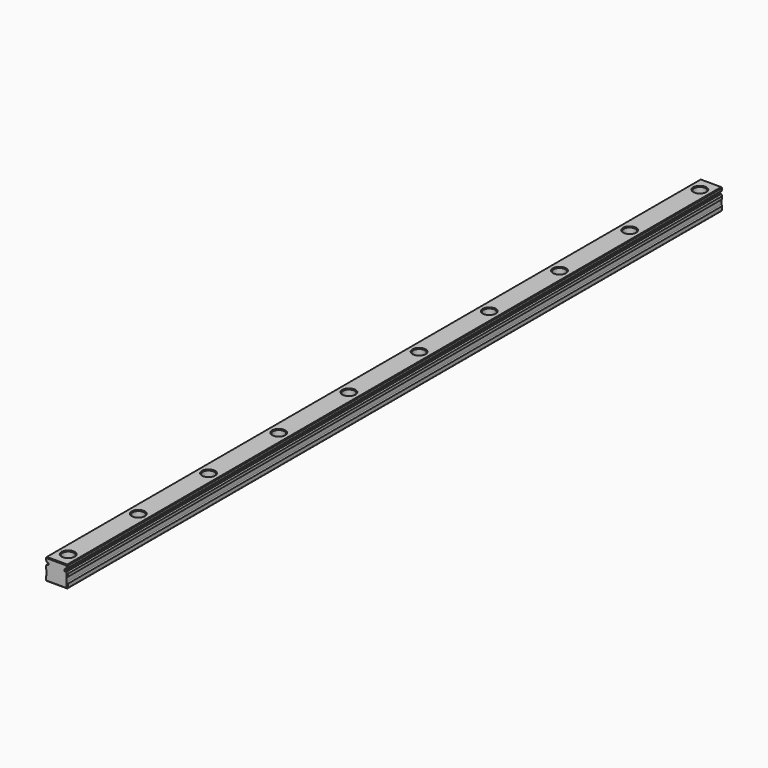
from build123d import *

# Parameters (mm, degrees)
F1_DEPTH = 560
F2_R     = 2.25
F3_DEPTH = 14.5
F4_R     = 4
F5_DEPTH = 6.3
F6_SIZE  = 0.5


with BuildPart() as f1:
    # F0 (on Front) → F1 (new body)
    with BuildSketch(Plane.XZ):
        with BuildLine():
            Line((-7.5, -7.25), (0, -7.25))
            Line((0, -7.25), (7.5, -7.25))
            Line((7.5, -7.25), (7.5, -4.125143))
            ThreePointArc((7.5, -4.125143), (7.005025, -3.920118), (6.8, -3.425143))
            Line((6.8, -3.425143), (6.8, -0.7))
            ThreePointArc((6.8, -0.7), (7.005025, -0.205025), (7.5, 0))
            Line((7.5, 0), (7.5, 1.875))
            ThreePointArc((7.5, 1.875), (7.005025, 2.080025), (6.8, 2.575))
            Line((6.8, 2.575), (6.8, 2.875))
            Line((6.8, 2.875), (5.5, 2.875))
            Line((5.5, 2.875), (5.5, 4.375))
            Line((5.5, 4.375), (6.8, 4.375))
            Line((6.8, 4.375), (6.8, 4.675))
            ThreePointArc((6.8, 4.675), (7.005025, 5.169975), (7.5, 5.375))
            Line((7.5, 5.375), (7.5, 7.25))
            Line((7.5, 7.25), (0, 7.25))
            Line((0, 7.25), (-7.5, 7.25))
            Line((-7.5, 7.25), (-7.5, 5.375))
            ThreePointArc((-7.5, 5.375), (-7.005025, 5.169975), (-6.8, 4.675))
            Line((-6.8, 4.675), (-6.8, 4.375))
            Line((-6.8, 4.375), (-5.5, 4.375))
            Line((-5.5, 4.375), (-5.5, 2.875))
            Line((-5.5, 2.875), (-6.8, 2.875))
            Line((-6.8, 2.875), (-6.8, 2.575))
            ThreePointArc((-6.8, 2.575), (-7.005025, 2.080025), (-7.5, 1.875))
            Line((-7.5, 1.875), (-7.5, 0))
            ThreePointArc((-7.5, 0), (-7.005025, -0.205025), (-6.8, -0.7))
            Line((-6.8, -0.7), (-6.8, -3.425143))
            ThreePointArc((-6.8, -3.425143), (-7.005025, -3.920118), (-7.5, -4.125143))
            Line((-7.5, -4.125143), (-7.5, -7.25))
        make_face()
    extrude(amount=-F1_DEPTH)

    # F2 (on face) → F3 (cut, through all)
    with BuildSketch(Plane.XY.offset(7.25)):
        with Locations((0, 10)):
            Circle(F2_R)
        with Locations((0, 70)):
            Circle(F2_R)
        with Locations((0, 130)):
            Circle(F2_R)
        with Locations((0, 190)):
            Circle(F2_R)
        with Locations((0, 250)):
            Circle(F2_R)
        with Locations((0, 310)):
            Circle(F2_R)
        with Locations((0, 370)):
            Circle(F2_R)
        with Locations((0, 430)):
            Circle(F2_R)
        with Locations((0, 490)):
            Circle(F2_R)
        with Locations((0, 550)):
            Circle(F2_R)
    extrude(amount=-F3_DEPTH, mode=Mode.SUBTRACT)

    # F4 (on face) → F5 (cut)
    with BuildSketch(Plane.XY.offset(7.25)):
        with Locations((0, 10)):
            Circle(F4_R)
        with Locations((0, 70)):
            Circle(F4_R)
        with Locations((0, 130)):
            Circle(F4_R)
        with Locations((0, 190)):
            Circle(F4_R)
        with Locations((0, 250)):
            Circle(F4_R)
        with Locations((0, 310)):
            Circle(F4_R)
        with Locations((0, 370)):
            Circle(F4_R)
        with Locations((0, 430)):
            Circle(F4_R)
        with Locations((0, 490)):
            Circle(F4_R)
        with Locations((0, 550)):
            Circle(F4_R)
    extrude(amount=-F5_DEPTH, mode=Mode.SUBTRACT)

    # F6
    f6_edges = [f1.edges().sort_by_distance(p)[0] for p in [
        (7.5, 280, 7.25),
        (0, 0, 7.25),
        (0, 560, 7.25),
        (-7.5, 280, 7.25),
        (-4, 550, 7.25),
        (-4, 490, 7.25),
        (-4, 430, 7.25),
        (-4, 370, 7.25),
        (-4, 310, 7.25),
        (-4, 250, 7.25),
        (-4, 190, 7.25),
        (-4, 130, 7.25),
        (-4, 70, 7.25),
        (-4, 10, 7.25),
        (-7.5, 280, -7.25),
        (0, 0, -7.25),
        (0, 560, -7.25),
        (7.5, 280, -7.25),
        (-2.25, 550, -7.25),
        (-2.25, 490, -7.25),
        (-2.25, 430, -7.25),
        (-2.25, 370, -7.25),
        (-2.25, 310, -7.25),
        (-2.25, 250, -7.25),
        (-2.25, 190, -7.25),
        (-2.25, 130, -7.25),
        (-2.25, 70, -7.25),
        (-2.25, 10, -7.25),
        (-7.5, 0, 6.3125),
        (-7.5, 0, 0.9375),
        (-7.5, 0, -5.687572),
        (7.5, 0, -5.687572),
        (7.5, 0, 0.9375),
        (7.5, 0, 6.3125),
        (-7.5, 560, -5.687572),
        (-7.5, 560, 0.9375),
        (-7.5, 560, 6.3125),
        (7.5, 560, 6.3125),
        (7.5, 560, 0.9375),
        (7.5, 560, -5.687572),
    ]]
    chamfer(f6_edges, length=F6_SIZE)


solid = f1.part
